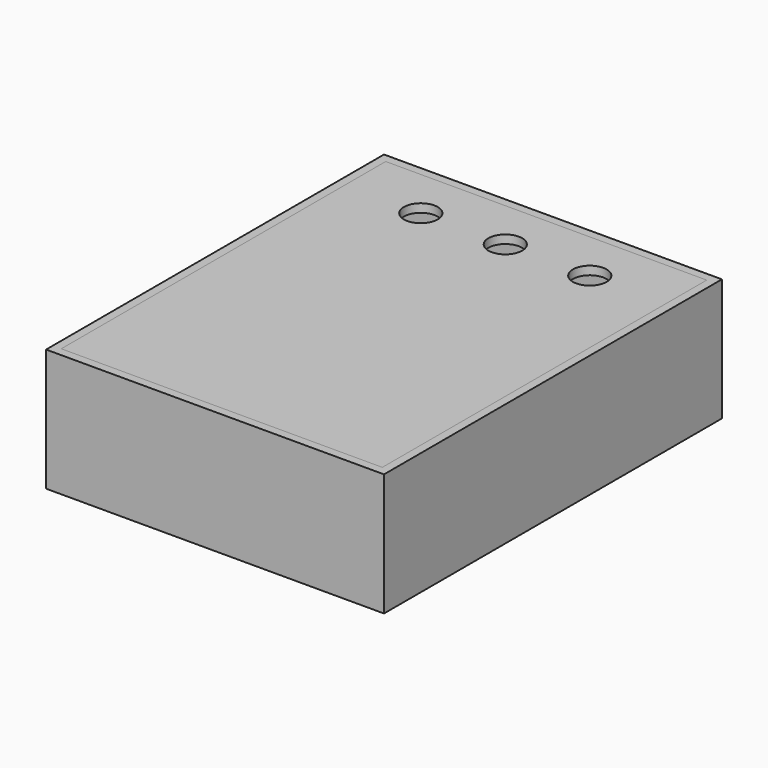
from build123d import *

# Parameters (mm, degrees)
F0_W      = 80
F0_H      = 100
F1_DEPTH  = 2
F2_W      = 80
F2_H      = 100
F2_W_2    = 74
F2_H_2    = 94
F3_DEPTH  = 25
F4_W      = 13
F4_H      = 15
F5_DEPTH  = 3.001
F6_W      = 80
F6_H      = 100
F6_W_2    = 76
F6_H_2    = 96
F7_DEPTH  = 2
F8_W      = 76
F8_H      = 96
F9_DEPTH  = 2
F10_R     = 2.5
F11_DEPTH = 3.001
F12_R     = 4
F13_DEPTH = 29.001


with BuildPart() as f1:
    # F0 (on Top) → F1 (new body)
    with BuildSketch(Plane.XY):
        with Locations((40, 50)):
            Rectangle(F0_W, F0_H)
    extrude(amount=F1_DEPTH)

    # F2 (on face) → F3 (join)
    with BuildSketch(Plane.XY.offset(2)):
        with Locations((40, 50)):
            Rectangle(F2_W, F2_H)
        with Locations((40, 50)):
            Rectangle(F2_W_2, F2_H_2, mode=Mode.SUBTRACT)
    extrude(amount=F3_DEPTH)

    # F4 (on face) → F5 (cut, through all)
    with BuildSketch(Plane.YZ.offset(3)):
        with Locations((44.5, 9.5)):
            Rectangle(F4_W, F4_H)
    extrude(amount=-F5_DEPTH, mode=Mode.SUBTRACT)

    # F6 (on face) → F7 (join)
    with BuildSketch(Plane.XY.offset(27)):
        with Locations((40, 50)):
            Rectangle(F6_W, F6_H)
        with Locations((40, 50)):
            Rectangle(F6_W_2, F6_H_2, mode=Mode.SUBTRACT)
    extrude(amount=F7_DEPTH)

    # F10 (on face) → F11 (cut, through all)
    with BuildSketch(Plane.XZ.offset(-97)):
        with Locations((40, 10.7801919803)):
            Circle(F10_R)
    extrude(amount=-F11_DEPTH, mode=Mode.SUBTRACT)


with BuildPart() as f9:
    # F8 (on face) → F9 (new body)
    with BuildSketch(Plane.XY.offset(27)):
        with Locations((40, 50)):
            Rectangle(F8_W, F8_H)
    extrude(amount=F9_DEPTH)

    # F12 (on face) → F13 (cut, through all)
    with BuildSketch(Plane.XY.offset(29)):
        with Locations((20, 85.8960747719)):
            Circle(F12_R)
        with Locations((40, 85.8960747719)):
            Circle(F12_R)
        with Locations((60, 85.8960747719)):
            Circle(F12_R)
    extrude(amount=-F13_DEPTH, mode=Mode.SUBTRACT)


solid = Compound([f1.part, f9.part])
